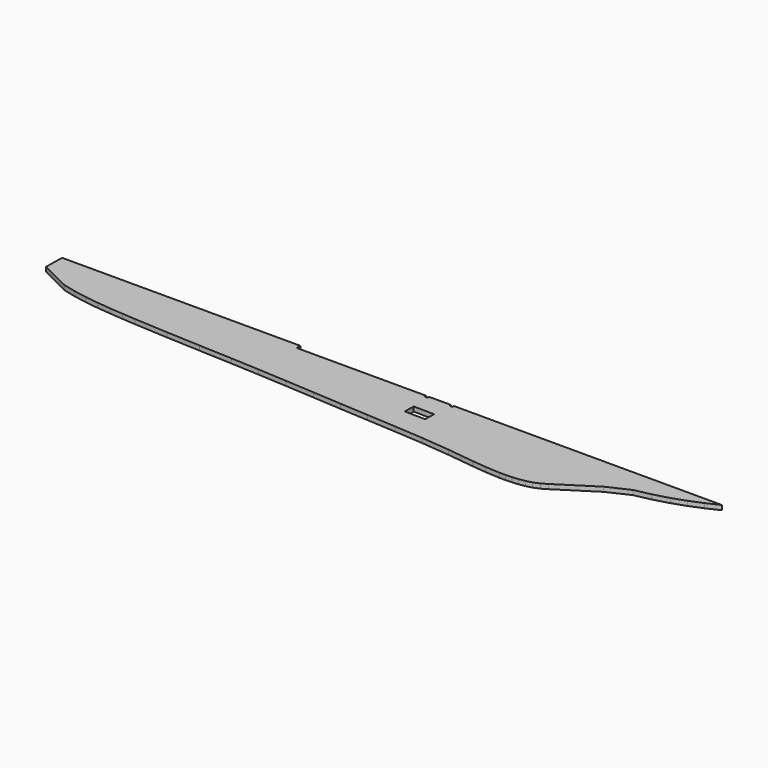
from build123d import *

# Parameters (mm, degrees)
PAD011_DEPTH = 5


with BuildPart() as part:
    # Sketch006 → Pad011 (new body)
    with BuildSketch(Plane.XY):
        with BuildLine():
            add(Edge.make_bspline(
                [(584.77704, -492.49432), (599.875929, -494.328765)],
                knots=[0, 0, 43.114731, 43.114731], degree=1))
            add(Edge.make_bspline(
                [(599.875929, -494.328765), (614.974818, -496.163209)],
                knots=[0, 0, 43.114731, 43.114731], degree=1))
            add(Edge.make_bspline(
                [(614.974818, -496.163209), (630.108984, -497.715431)],
                knots=[0, 0, 43.125051, 43.125051], degree=1))
            add(Edge.make_bspline(
                [(630.108984, -497.715431), (645.278428, -498.562098)],
                knots=[0, 0, 43.066925, 43.066925], degree=1))
            add(Edge.make_bspline(
                [(645.278428, -498.562098), (652.122317, -498.632653)],
                knots=[0, 0, 19.401031, 19.401031], degree=1))
            add(Edge.make_bspline(
                [(652.122317, -498.632653), (658.966206, -498.350431)],
                knots=[0, 0, 19.416488, 19.416488], degree=1))
            add(Edge.make_bspline(
                [(658.966206, -498.350431), (665.810094, -497.750709)],
                knots=[0, 0, 19.474342, 19.474342], degree=1))
            add(Edge.make_bspline(
                [(665.810094, -497.750709), (672.583427, -496.62182)],
                knots=[0, 0, 19.46484, 19.46484], degree=1))
            add(Edge.make_bspline(
                [(672.583427, -496.62182), (679.145094, -494.857931)],
                knots=[0, 0, 19.260322, 19.260322], degree=1))
            add(Edge.make_bspline(
                [(679.145094, -494.857931), (685.424538, -492.247376)],
                knots=[0, 0, 19.276929, 19.276929], degree=1))
            add(Edge.make_bspline(
                [(685.424538, -492.247376), (691.351205, -488.719598)],
                knots=[0, 0, 19.550959, 19.550959], degree=1))
            add(Edge.make_bspline(
                [(691.351205, -488.719598), (730.791759, -463.425432)],
                knots=[0, 0, 132.816151, 132.816151], degree=1))
            add(Edge.make_bspline(
                [(730.791759, -463.425432), (742.574537, -457.922099)],
                knots=[0, 0, 36.863532, 36.863532], degree=1))
            add(Edge.make_bspline(
                [(754.357315, -452.418766), (742.574537, -457.922099)],
                knots=[0, 0, 36.863532, 36.863532], degree=1))
            add(Edge.make_bspline(
                [(771.749259, -448.714599), (754.357315, -452.418766)],
                knots=[0, 0, 50.405754, 50.405754], degree=1))
            add(Edge.make_bspline(
                [(788.85898, -443.952099), (771.749259, -448.714599)],
                knots=[0, 0, 50.343818, 50.343818], degree=1))
            add(Edge.make_bspline(
                [(803.075925, -439.01321), (788.85898, -443.952099)],
                knots=[0, 0, 42.662513, 42.662513], degree=1))
            add(Edge.make_bspline(
                [(817.081202, -433.29821), (803.075925, -439.01321)],
                knots=[0, 0, 42.878083, 42.878083], degree=1))
            add(Edge.make_bspline(
                [(830.839535, -426.771822), (817.081202, -433.29821)],
                knots=[0, 0, 43.16538, 43.16538], degree=1))
            add(Edge.make_bspline(
                [(830.839535, -426.771822), (538.351486, -426.771822)],
                knots=[0, 0, 829.1, 829.1], degree=1))
            add(Edge.make_bspline(
                [(538.351486, -428.782655), (538.351486, -426.771822)],
                knots=[0, 0, 5.7, 5.7], degree=1))
            add(Edge.make_bspline(
                [(535.317597, -428.782655), (538.351486, -428.782655)],
                knots=[0, 0, 8.6, 8.6], degree=1))
            add(Edge.make_bspline(
                [(535.317597, -426.771822), (535.317597, -428.782655)],
                knots=[0, 0, 5.7, 5.7], degree=1))
            add(Edge.make_bspline(
                [(535.317597, -426.771822), (511.328709, -426.771822)],
                knots=[0, 0, 68, 68], degree=1))
            add(Edge.make_bspline(
                [(511.328709, -428.782655), (511.328709, -426.771822)],
                knots=[0, 0, 5.7, 5.7], degree=1))
            add(Edge.make_bspline(
                [(508.330098, -428.782655), (511.328709, -428.782655)],
                knots=[0, 0, 8.5, 8.5], degree=1))
            add(Edge.make_bspline(
                [(508.330098, -426.771822), (508.330098, -428.782655)],
                knots=[0, 0, 5.7, 5.7], degree=1))
            add(Edge.make_bspline(
                [(508.330098, -426.771822), (366.760379, -426.771822)],
                knots=[0, 0, 401.3, 401.3], degree=1))
            add(Edge.make_bspline(
                [(366.760379, -426.771822), (366.760379, -421.762377)],
                knots=[0, 0, 14.2, 14.2], degree=1))
            add(Edge.make_bspline(
                [(366.760379, -421.762377), (106.79844, -421.762377)],
                knots=[0, 0, 736.9, 736.9], degree=1))
            add(Edge.make_bspline(
                [(106.445662, -443.211266), (106.79844, -421.762377)],
                knots=[0, 0, 60.808223, 60.808223], degree=1))
            add(Edge.make_bspline(
                [(140.135939, -459.897654), (106.445662, -443.211266)],
                knots=[0, 0, 106.57176, 106.57176], degree=1))
            add(Edge.make_bspline(
                [(154.070661, -463.213765), (140.135939, -459.897654)],
                knots=[0, 0, 40.603079, 40.603079], degree=1))
            add(Edge.make_bspline(
                [(168.21705, -465.753765), (154.070661, -463.213765)],
                knots=[0, 0, 40.741257, 40.741257], degree=1))
            add(Edge.make_bspline(
                [(182.539827, -467.623488), (168.21705, -465.753765)],
                knots=[0, 0, 40.944475, 40.944475], degree=1))
            add(Edge.make_bspline(
                [(196.93316, -469.034599), (182.539827, -467.623488)],
                knots=[0, 0, 40.99561, 40.99561], degree=1))
            add(Edge.make_bspline(
                [(211.361771, -470.163487), (196.93316, -469.034599)],
                knots=[0, 0, 41.024992, 41.024992], degree=1))
            add(Edge.make_bspline(
                [(225.790382, -471.186543), (211.361771, -470.163487)],
                knots=[0, 0, 41.002683, 41.002683], degree=1))
            add(Edge.make_bspline(
                [(262.408714, -473.232654), (225.790382, -471.186543)],
                knots=[0, 0, 103.961916, 103.961916], degree=1))
            add(Edge.make_bspline(
                [(298.991769, -474.925987), (262.408714, -473.232654)],
                knots=[0, 0, 103.81103, 103.81103], degree=1))
            add(Edge.make_bspline(
                [(335.539546, -476.513487), (298.991769, -474.925987)],
                knots=[0, 0, 103.697686, 103.697686], degree=1))
            add(Edge.make_bspline(
                [(366.689823, -478.06571), (335.539546, -476.513487)],
                knots=[0, 0, 88.409558, 88.409558], degree=1))
            add(Edge.make_bspline(
                [(397.8401, -479.864876), (366.689823, -478.06571)],
                knots=[0, 0, 88.447159, 88.447159], degree=1))
            add(Edge.make_bspline(
                [(429.025655, -481.805154), (397.8401, -479.864876)],
                knots=[0, 0, 88.570932, 88.570932], degree=1))
            add(Edge.make_bspline(
                [(460.175932, -483.780709), (429.025655, -481.805154)],
                knots=[0, 0, 88.477398, 88.477398], degree=1))
            add(Edge.make_bspline(
                [(491.361487, -485.650432), (460.175932, -483.780709)],
                knots=[0, 0, 88.558738, 88.558738], degree=1))
            add(Edge.make_bspline(
                [(522.547042, -487.520154), (491.361487, -485.650432)],
                knots=[0, 0, 88.558738, 88.558738], degree=1))
            add(Edge.make_bspline(
                [(553.697319, -489.601543), (522.547042, -487.520154)],
                knots=[0, 0, 88.496893, 88.496893], degree=1))
            add(Edge.make_bspline(
                [(584.77704, -492.49432), (553.697319, -489.601543)],
                knots=[0, 0, 88.480789, 88.480789], degree=1))
        make_face()
        with BuildLine():
            add(Edge.make_bspline(
                [(511.928431, -460.779599), (512.140098, -448.785155)],
                knots=[0, 0, 34.005294, 34.005294], degree=1))
            add(Edge.make_bspline(
                [(534.612042, -449.17321), (512.140098, -448.785155)],
                knots=[0, 0, 63.709497, 63.709497], degree=1))
            add(Edge.make_bspline(
                [(534.400375, -461.167654), (534.612042, -449.17321)],
                knots=[0, 0, 34.005294, 34.005294], degree=1))
            add(Edge.make_bspline(
                [(534.400375, -461.167654), (511.928431, -460.779599)],
                knots=[0, 0, 63.709497, 63.709497], degree=1))
        make_face(mode=Mode.SUBTRACT)
    extrude(amount=PAD011_DEPTH)


solid = part.part
